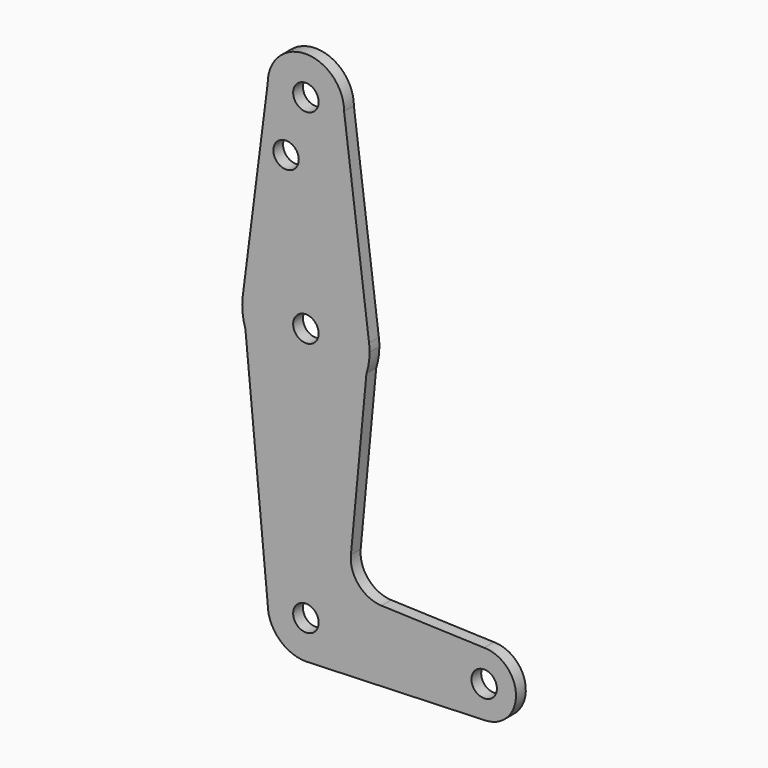
from build123d import *

# Parameters (mm, degrees)
F0_R     = 3.175
F1_DEPTH = 3.048


with BuildPart() as f1:
    # F0 (on Front) → F1 (new body)
    with BuildSketch(Plane.XZ):
        with BuildLine():
            ThreePointArc((-9.525, 114.3), (0, 104.775), (9.525, 114.3))
            ThreePointArc((9.525, 114.3), (0, 123.825), (-9.525, 114.3))
        make_face()
        with Locations((0, 114.3)):
            Circle(F0_R, mode=Mode.SUBTRACT)
        with BuildLine():
            Line((15.7474569047, 65.5082893304), (9.525, 114.3))
            ThreePointArc((9.525, 114.3), (0, 104.775), (-9.525, 114.3))
            Line((-9.525, 114.3), (-15.7474569047, 65.5082893304))
            ThreePointArc((-15.7474569047, 65.5082893304), (0, 79.375), (15.7474569047, 65.5082893304))
        make_face()
        with Locations((-4.9515026622, 100.0252)):
            Circle(F0_R, mode=Mode.SUBTRACT)
        with BuildLine():
            Line((15.0940259351, 58.5820729906), (15.7474569047, 65.5082893304))
            ThreePointArc((15.7474569047, 65.5082893304), (0, 79.375), (-15.7474569047, 65.5082893304))
            Line((-15.7474569047, 65.5082893304), (-15.0877196672, 58.5627598555))
            ThreePointArc((-15.0877196672, 58.5627598555), (0.0101583242, 47.6250032501), (15.0940259351, 58.5820729906))
        make_face()
        with Locations((0, 63.5)):
            Circle(F0_R, mode=Mode.SUBTRACT)
        with BuildLine():
            ThreePointArc((15.875, 63.5), (15.8430821396, 64.5061676396), (15.7474569047, 65.5082893304))
            Line((15.7474569047, 65.5082893304), (15.0940259351, 58.5820729906))
            ThreePointArc((15.0940259351, 58.5820729906), (15.6785408556, 61.0102245804), (15.875, 63.5))
        make_face()
        with BuildLine():
            Line((-15.0877196672, 58.5627598555), (-15.7474569047, 65.5082893304))
            ThreePointArc((-15.7474569047, 65.5082893304), (-15.8038641944, 61.9988332792), (-15.0877196672, 58.5627598555))
        make_face()
        with BuildLine():
            Line((11.2223783244, 17.5435085636), (15.0940259351, 58.5820729906))
            ThreePointArc((15.0940259351, 58.5820729906), (0.0101583242, 47.6250032501), (-15.0877196672, 58.5627598555))
            Line((-15.0877196672, 58.5627598555), (-9.525, 0))
            ThreePointArc((-9.525, 0), (0, 9.525), (9.525, 0))
            ThreePointArc((9.525, 0), (6.9705567315, -6.4912990883), (0.6773435479, -9.500885786))
            Line((0.6773435479, -9.500885786), (44.7324052746, -7.9324746146))
            ThreePointArc((44.7324052746, -7.9324746146), (36.5137564458, -0.1412249921), (44.45, 7.9375))
            Line((44.45, 7.9375), (18.8536781493, 8.8516543518))
            ThreePointArc((18.8536781493, 8.8516543518), (13.163137896, 11.5514597003), (11.2223783244, 17.5435085636))
        make_face()
        with BuildLine():
            ThreePointArc((9.525, 0), (0, 9.525), (-9.525, 0))
            ThreePointArc((-9.525, 0), (-6.7351920908, -6.7351920908), (0, -9.525))
            Line((0, -9.525), (0.6773435479, -9.500885786))
            ThreePointArc((0.6773435479, -9.500885786), (6.9705567315, -6.4912990883), (9.525, 0))
        make_face()
        Circle(F0_R, mode=Mode.SUBTRACT)
        with BuildLine():
            Line((0.6773435479, -9.500885786), (0, -9.525))
            ThreePointArc((0, -9.525), (0.3388863295, -9.5189695375), (0.6773435479, -9.500885786))
        make_face()
        with BuildLine():
            ThreePointArc((52.3875, 0), (50.0626600757, 5.6126600757), (44.45, 7.9375))
            ThreePointArc((44.45, 7.9375), (36.5137564458, -0.1412249921), (44.7324052746, -7.9324746146))
            ThreePointArc((44.7324052746, -7.9324746146), (50.1616327839, -5.5119104847), (52.3875, 0))
        make_face()
        with Locations((44.45, 0)):
            Circle(F0_R, mode=Mode.SUBTRACT)
    extrude(amount=F1_DEPTH)


solid = f1.part
